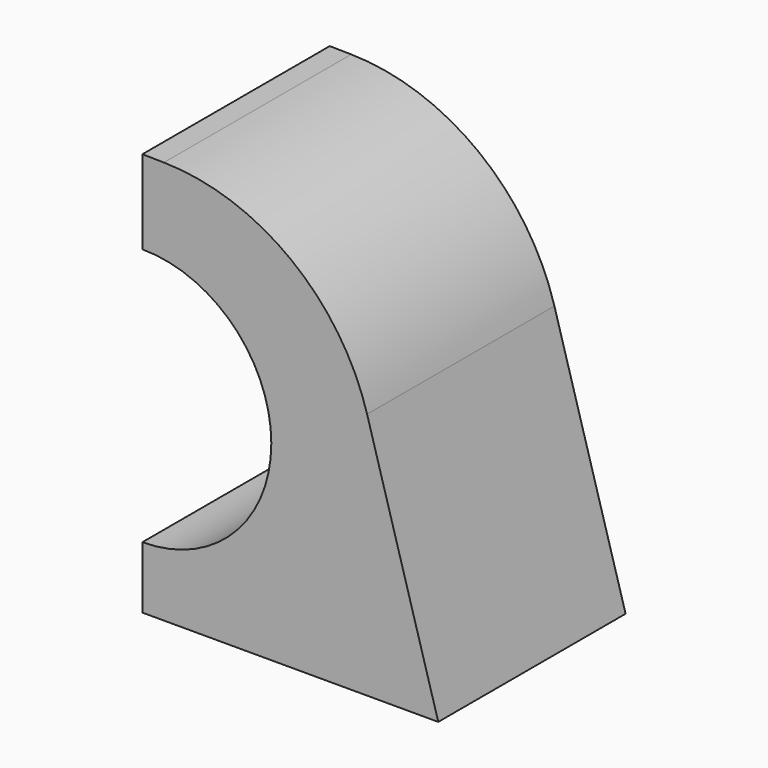
from build123d import *

# Parameters (mm, degrees)
F1_DEPTH = 27.686


with BuildPart() as f1:
    # F0 (on Front) → F1 (new body)
    with BuildSketch(Plane.XZ):
        with BuildLine():
            Line((-34.980499, 7.33363), (-34.980499, 0))
            Line((-34.980499, 0), (0, 0))
            Line((0, 0), (-8.416646, 29.294888))
            ThreePointArc((-8.416646, 29.294888), (-17.393594, 42.452943), (-32.440795, 47.678049))
            Line((-32.440795, 47.678049), (-34.980499, 47.716875))
            Line((-34.980499, 47.716875), (-34.980499, 37.81363))
            ThreePointArc((-34.980499, 37.81363), (-24.204191, 33.349937), (-19.740499, 22.57363))
            ThreePointArc((-19.740499, 22.57363), (-24.204191, 11.797322), (-34.980499, 7.33363))
        make_face()
    extrude(amount=F1_DEPTH)


solid = f1.part
